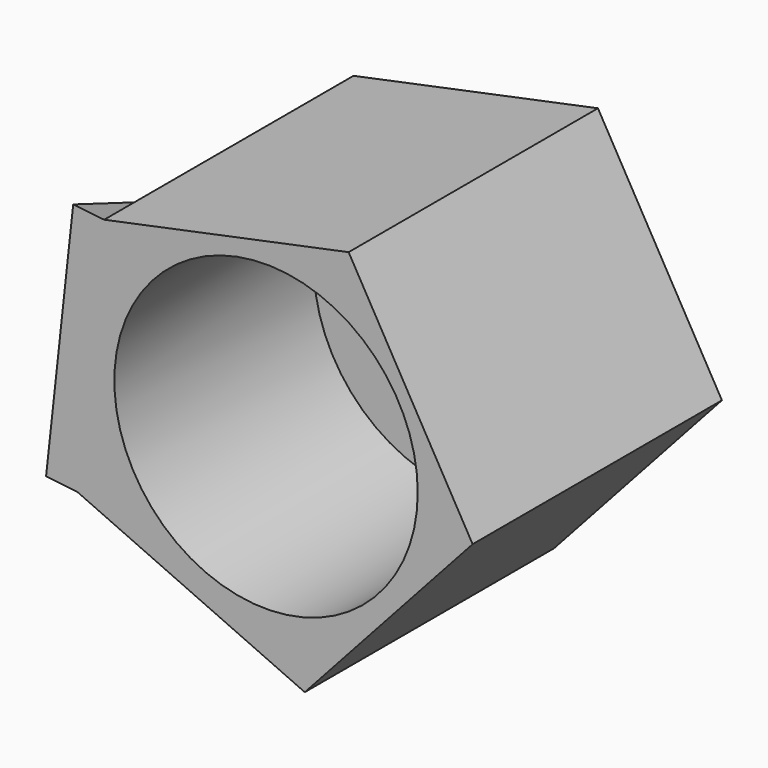
from build123d import *

# Parameters (mm, degrees)
F1_DEPTH = 25.4
F2_R     = 12.365241
F3_DEPTH = 20.32
F5_DEPTH = 2.54


with BuildPart() as f1:
    # F0 (on Front) → F1 (new body)
    with BuildSketch(Plane.XZ):
        Polygon((22.213069, 6.299807), (35.893104, 21.369218), (25.788605, 39.036409), (5.863647, 34.885922), (3.653844, 14.653589), align=None)
    extrude(amount=F1_DEPTH)

    # F2 (on face) → F3 (cut)
    with BuildSketch(Plane.XZ.offset(25.4)):
        with Locations((19.056195, 23.6161)):
            Circle(F2_R)
    extrude(amount=-F3_DEPTH, mode=Mode.SUBTRACT)

    # F4 (on face) → F5 (join)
    with BuildSketch(Plane(origin=(2.029152, 0, -0.221627), x_dir=(0, -1, 0), z_dir=(-0.994088, 0, 0.108576))):
        Polygon((25.4, 14.963679), (25.4, 35.316332), (0, 25.140005), align=None)
    extrude(amount=F5_DEPTH)


solid = f1.part
